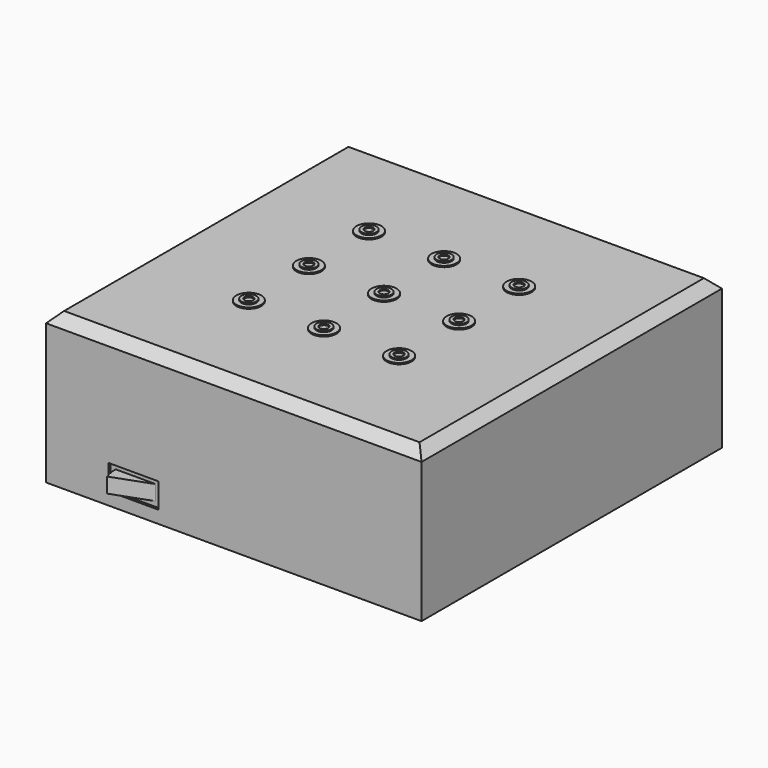
from build123d import *

# Parameters (mm, degrees)
SKETCH_W         = 150
SKETCH_H         = 150
PAD_DEPTH        = 30
SKETCH001_R      = 3
PAD001_DEPTH     = 1
SKETCH002_R      = 1.75
POCKET_DEPTH     = 20
SKETCH003_R      = 5
PAD002_DEPTH     = 0.5
SKETCH004_W      = 20
SKETCH004_H      = 10
POCKET001_DEPTH  = 1
SKETCH005_W      = 16
SKETCH005_H      = 6
REVOLUTION_ANGLE = 20
CHAMFER_SIZE     = 4


with BuildPart() as part:
    # Sketch → Pad (new body, symmetric)
    with BuildSketch(Plane.XY):
        Rectangle(SKETCH_W, SKETCH_H)
    extrude(amount=PAD_DEPTH, both=True)

    # Sketch001 (on Face6 of Pad) → Pad001 (join)
    with BuildSketch(Plane.XY.offset(30)):
        with Locations((-30, 30)):
            Circle(SKETCH001_R)
        with Locations((0, 30)):
            Circle(SKETCH001_R)
        with Locations((30, 30)):
            Circle(SKETCH001_R)
        with Locations((-30, 0)):
            Circle(SKETCH001_R)
        Circle(SKETCH001_R)
        with Locations((30, 0)):
            Circle(SKETCH001_R)
        with Locations((-30, -30)):
            Circle(SKETCH001_R)
        with Locations((0, -30)):
            Circle(SKETCH001_R)
        with Locations((30, -30)):
            Circle(SKETCH001_R)
    extrude(amount=PAD001_DEPTH)

    # Sketch002 (on Face5 of Pad001) → Pocket (cut)
    with BuildSketch(Plane.XY.offset(31)):
        with Locations((-30, 30)):
            Circle(SKETCH002_R)
        with Locations((0, 30)):
            Circle(SKETCH002_R)
        with Locations((30, 30)):
            Circle(SKETCH002_R)
        with Locations((-30, 0)):
            Circle(SKETCH002_R)
        Circle(SKETCH002_R)
        with Locations((30, 0)):
            Circle(SKETCH002_R)
        with Locations((-30, -30)):
            Circle(SKETCH002_R)
        with Locations((0, -30)):
            Circle(SKETCH002_R)
        with Locations((30, -30)):
            Circle(SKETCH002_R)
    extrude(amount=-POCKET_DEPTH, mode=Mode.SUBTRACT)

    # Sketch003 (on Face5 of Pocket) → Pad002 (join)
    with BuildSketch(Plane.XY.offset(30)):
        with Locations((-30, 30)):
            Circle(SKETCH003_R)
        with Locations((0, 30)):
            Circle(SKETCH003_R)
        with Locations((30, 30)):
            Circle(SKETCH003_R)
        with Locations((-30, 0)):
            Circle(SKETCH003_R)
        Circle(SKETCH003_R)
        with Locations((30, 0)):
            Circle(SKETCH003_R)
        with Locations((-30, -30)):
            Circle(SKETCH003_R)
        with Locations((0, -30)):
            Circle(SKETCH003_R)
        with Locations((30, -30)):
            Circle(SKETCH003_R)
    extrude(amount=PAD002_DEPTH)

    # Sketch004 (on Face1 of Pad002) → Pocket001 (cut)
    with BuildSketch(Plane.XZ.offset(75)):
        with Locations((-40, -20)):
            Rectangle(SKETCH004_W, SKETCH004_H)
    extrude(amount=-POCKET001_DEPTH, mode=Mode.SUBTRACT)

    # Sketch005 (on Face20 of Pocket001) → Revolution (revolve)
    with BuildSketch(Plane.XZ.offset(74)):
        with Locations((-40, -20)):
            Rectangle(SKETCH005_W, SKETCH005_H)
    revolve(axis=Axis((-32, -74, -23), (0, 0, 1)), revolution_arc=REVOLUTION_ANGLE)

    # Chamfer
    chamfer_edges = [part.edges().sort_by_distance(p)[0] for p in [
        (0, 75, 30),
        (75, 0, 30),
        (0, -75, 30),
        (-75, 0, 30),
    ]]
    chamfer(chamfer_edges, length=CHAMFER_SIZE)


solid = part.part
